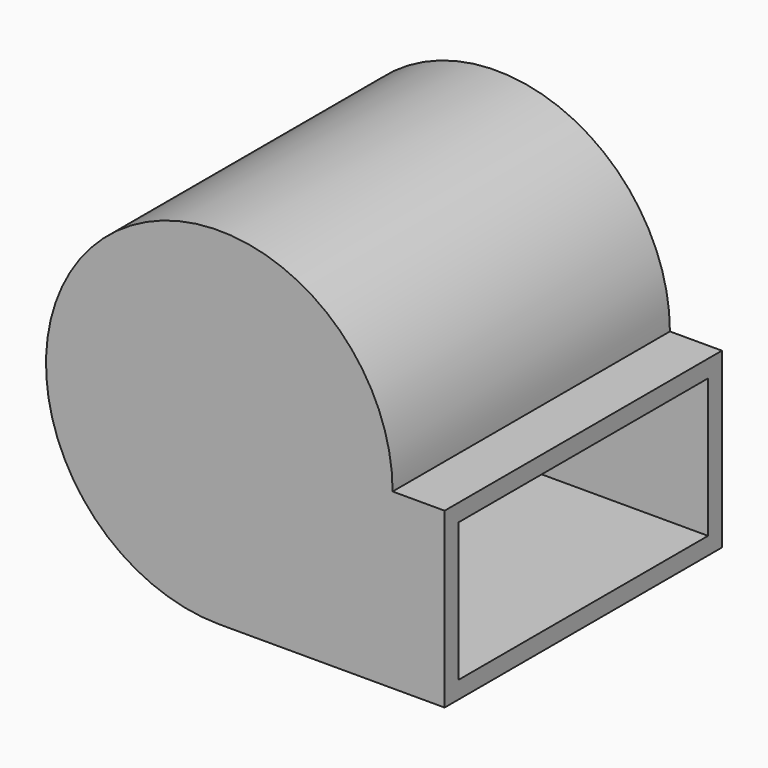
from build123d import *

# Parameters (mm, degrees)
F1_DEPTH = 127
F2_T     = -6.35


with BuildPart() as f1:
    # F0 (on Front) → F1 (new body)
    with BuildSketch(Plane.XZ):
        with BuildLine():
            ThreePointArc((-19.05, 63.5), (-127.4512806053, 108.4012806053), (-82.55, 0))
            Line((-82.55, 0), (0, 0))
            Line((0, 0), (0, 63.5))
            Line((0, 63.5), (-19.05, 63.5))
        make_face()
    extrude(amount=F1_DEPTH)

    # F2
    f2_openings = [f1.faces().sort_by_distance(p)[0] for p in [
        (0, -63.5, 31.75),
    ]]
    offset(amount=F2_T, openings=f2_openings, kind=Kind.INTERSECTION)


solid = f1.part
